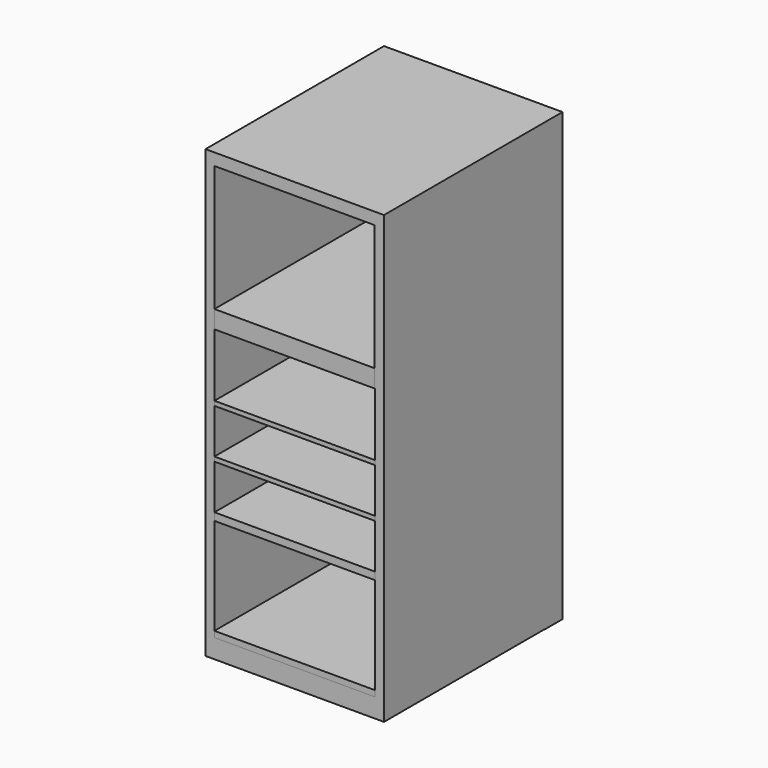
from build123d import *

# Parameters (mm, degrees)
F0_W     = 45.535646
F0_H     = 5.08
F1_DEPTH = 63.5
F2_W     = 50.8
F2_H     = 127
F3_DEPTH = 6.35
F0_W_2   = 45.72
F0_H_2   = 1.27
F0_H_3   = 2.150806
F0_H_4   = 1.700164
F4_DEPTH = 63.5


with BuildPart() as f1:
    # F0 (on Front) → F1 (new body)
    with BuildSketch(Plane.XZ):
        Polygon((25.4, 51.066291), (25.4, 63.5), (22.86, 63.5), (-22.86, 63.5), (-22.86, 60.09968), (22.675646, 60.09968), (22.675646, 24.252903), (22.675646, 19.172903), (22.86, 19.172903), (22.86, 2.765323), (22.86, 1.27), (22.86, 0), (22.86, -12.7), (22.86, -13.97), (22.86, -26.67), (22.86, -28.820806), (22.86, -30.971613), (22.86, -56.371613), (22.86, -58.071777), (-22.86, -58.071777), (-22.86, -56.371613), (-22.86, -30.971613), (-22.86, -28.820806), (-22.86, -26.67), (-22.86, -13.97), (-22.86, -12.7), (-22.86, 0), (-22.86, 1.27), (-22.86, 2.765323), (-22.86, 19.172903), (-22.86, 24.252903), (-22.86, 51.066291), (-25.4, 51.066291), (-25.4, -63.5), (0, -63.5), (25.4, -63.5), align=None)
        with Locations((-0.092177, 21.712903)):
            Rectangle(F0_W, F0_H)
        Polygon((-22.86, 60.09968), (-22.86, 63.5), (-25.4, 63.5), (-25.4, 51.066291), (-22.86, 51.066291), align=None)
    extrude(amount=F1_DEPTH)

    # F2 (on Front) → F3 (join)
    with BuildSketch(Plane.XZ):
        with Locations((-0.040969, -0.102418)):
            Rectangle(F2_W, F2_H)
    extrude(amount=F3_DEPTH)


with BuildPart() as f4:
    # F0 (on Front) → F4 (new body)
    with BuildSketch(Plane.XZ):
        with Locations((0, 0.635)):
            Rectangle(F0_W_2, F0_H_2)
        with Locations((0, -13.335)):
            Rectangle(F0_W_2, F0_H_2)
        with Locations((0, -27.745403)):
            Rectangle(F0_W_2, F0_H_3)
        with Locations((-0.092177, 21.712903)):
            Rectangle(F0_W, F0_H)
        with Locations((0, -57.221695)):
            Rectangle(F0_W_2, F0_H_4)
    extrude(amount=F4_DEPTH)


solid = Compound([f1.part, f4.part])
